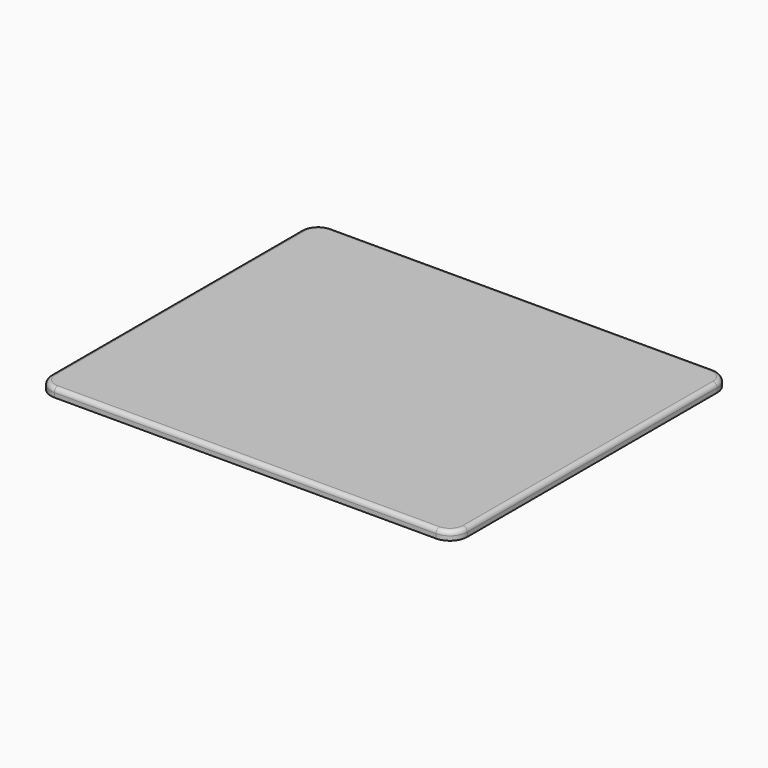
from build123d import *

# Parameters (mm, degrees)
EXTRUDE_DEPTH = 5
FILLET_R      = 2.5


with BuildPart() as part:
    # Sketch → Extrude (new body)
    with BuildSketch(Plane.XY):
        with BuildLine():
            Line((-120, 90), (-120, -90))
            ThreePointArc((-120, -90), (-117.071068, -97.071068), (-110, -100))
            Line((-110, -100), (110, -100))
            ThreePointArc((110, -100), (117.071068, -97.071068), (120, -90))
            Line((120, -90), (120, 89.999999))
            ThreePointArc((120, 89.999999), (117.071077, 97.071059), (110.000024, 100))
            Line((110.000024, 100), (-110, 100))
            ThreePointArc((-110, 100), (-117.071068, 97.071068), (-120, 90))
        make_face()
    extrude(amount=EXTRUDE_DEPTH)

    # Fillet
    fillet_edges = [part.edges().sort_by_distance(p)[0] for p in [
        (-120, 0, 5),
        (-117.071068, -97.071068, 5),
        (0, -100, 5),
        (117.071068, -97.071068, 5),
        (120, -1e-06, 5),
        (117.071077, 97.071059, 5),
        (1.2e-05, 100, 5),
        (-117.071068, 97.071068, 5),
    ]]
    fillet(fillet_edges, radius=FILLET_R)


solid = part.part
